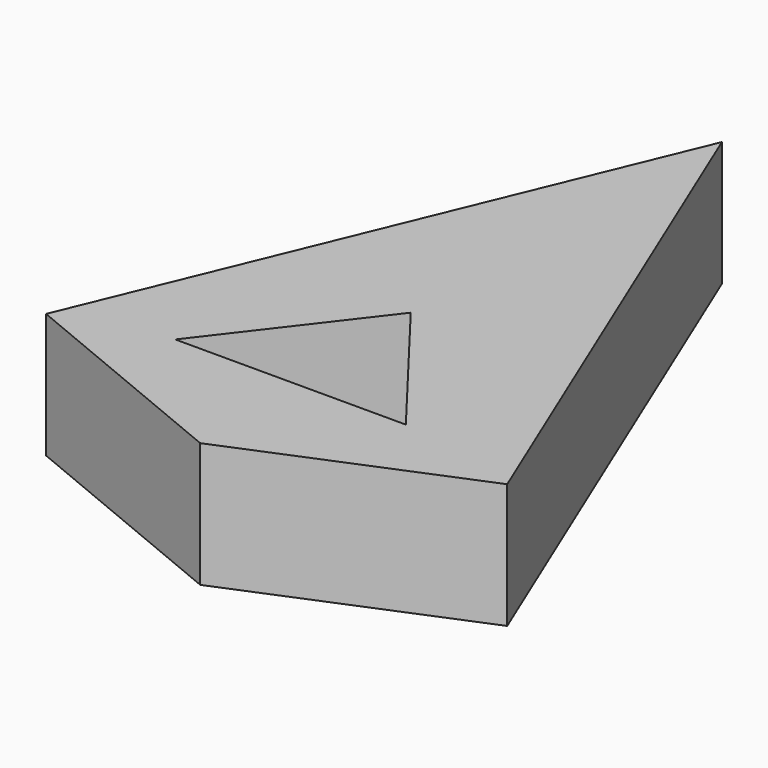
from build123d import *

# Parameters (mm, degrees)
F1_DEPTH = 25.4


with BuildPart() as f1:
    # F0 (on Top) → F1 (new body)
    with BuildSketch(Plane.XY):
        Polygon((-46.93308, 0), (0, -19.440318), (46.93308, 0), (0, 113.306479), align=None)
        Polygon((21.53308, 5.959682), (-25.4, 5.959682), (-1.93346, 36.541872), align=None, mode=Mode.SUBTRACT)
    extrude(amount=F1_DEPTH)


solid = f1.part
